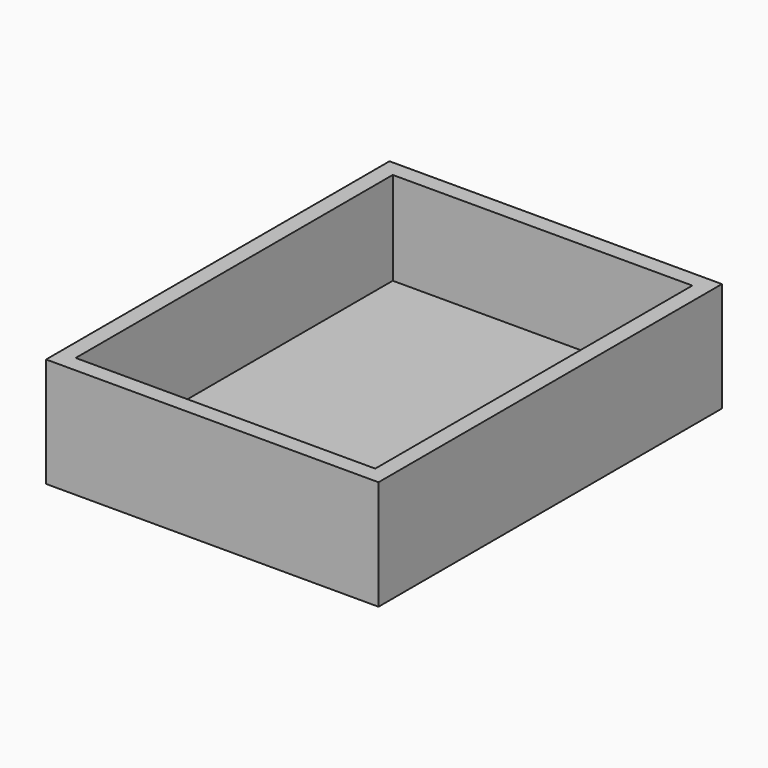
from build123d import *

# Parameters (mm, degrees)
F0_W     = 364
F0_H     = 470
F1_DEPTH = 60
F2_W     = 328
F2_H     = 434
F3_DEPTH = 102


with BuildPart() as f1:
    # F0 (on Top) → F1 (new body, symmetric)
    with BuildSketch(Plane.XY):
        Rectangle(F0_W, F0_H)
    extrude(amount=F1_DEPTH, both=True)

    # F2 (on face) → F3 (cut)
    with BuildSketch(Plane.XY.offset(60)):
        Rectangle(F2_W, F2_H)
    extrude(amount=-F3_DEPTH, mode=Mode.SUBTRACT)


solid = f1.part
